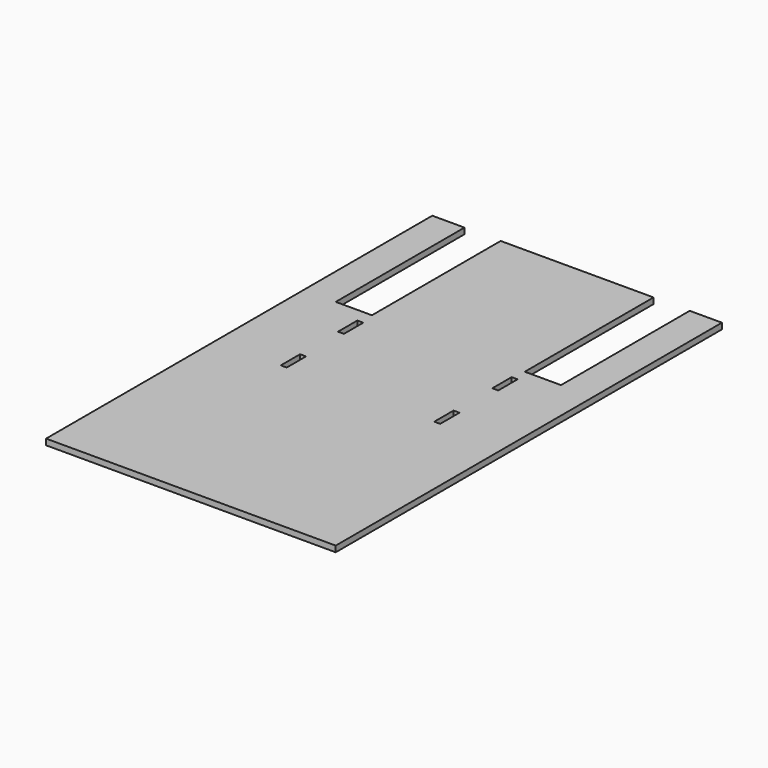
from build123d import *

# Parameters (mm, degrees)
F0_W     = 18.6944
F0_H     = 76.2
F1_DEPTH = 18.6944


with BuildPart() as f1:
    # F0 (on Top) → F1 (new body)
    with BuildSketch(Plane.XY):
        Polygon((-993.056788, 1070.425048), (-1094.656788, 1070.425048), (-1094.656788, -453.574952), (-180.256788, -453.574952), (-180.256788, 1070.425048), (-281.856788, 1070.425048), (-281.856788, 562.429123), (-396.156788, 562.429123), (-396.156788, 1070.425048), (-878.756788, 1070.425048), (-878.756788, 562.429123), (-993.056788, 562.429123), align=None)
        with Locations((-877.741456, 251.23979)):
            Rectangle(F0_W, F0_H, mode=Mode.SUBTRACT)
        with Locations((-394.483924, 252.830426)):
            Rectangle(F0_W, F0_H, mode=Mode.SUBTRACT)
        with Locations((-879.944742, 479.83979)):
            Rectangle(F0_W, F0_H, mode=Mode.SUBTRACT)
        with Locations((-394.105584, 481.430426)):
            Rectangle(F0_W, F0_H, mode=Mode.SUBTRACT)
    extrude(amount=F1_DEPTH)


solid = f1.part
